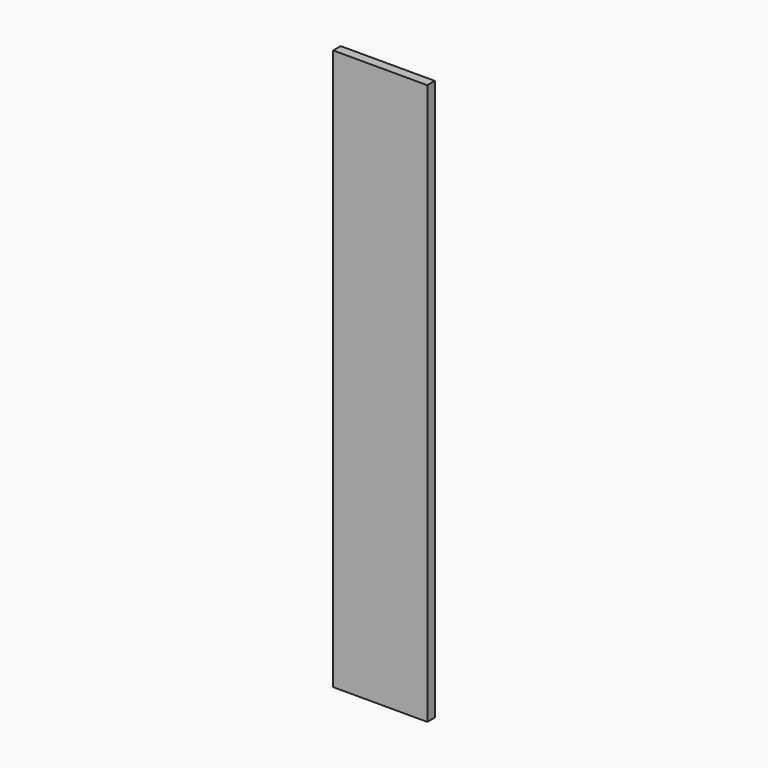
from build123d import *

# Parameters (mm, degrees)
F0_W     = 25.4
F0_H     = 50.038
F0_H_2   = 1.1684
F1_DEPTH = 2.54


with BuildPart() as f1:
    # F0 (on Front) → F1 (new body)
    with BuildSketch(Plane.XZ):
        Polygon((-12.7, 0), (0, 0), (12.7, 0), (12.7, 100.0252), (-12.7, 100.0252), align=None)
        with Locations((0, 125.0442)):
            Rectangle(F0_W, F0_H)
        with Locations((0, 150.6474)):
            Rectangle(F0_W, F0_H_2)
    extrude(amount=-F1_DEPTH)


solid = f1.part
